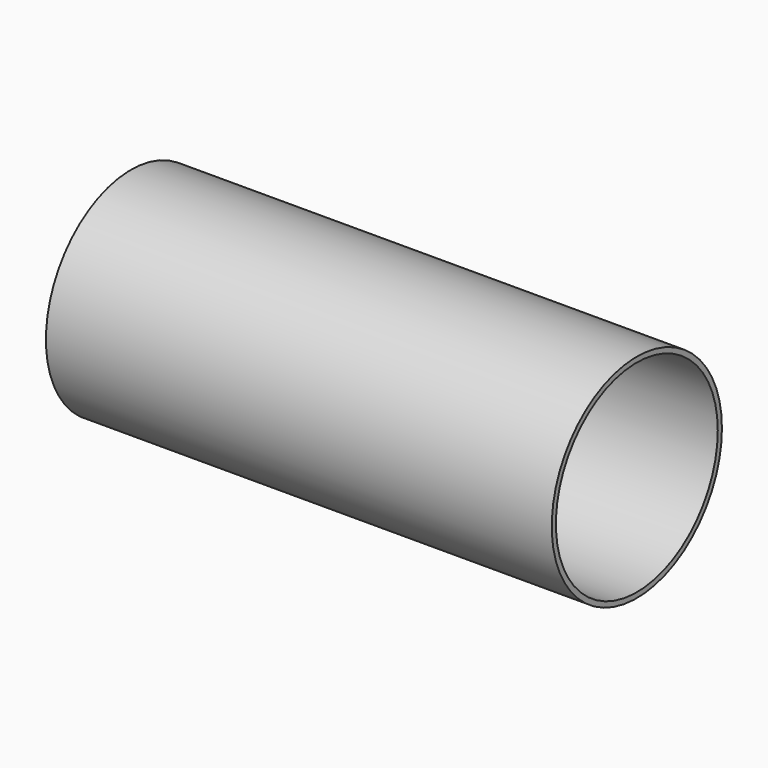
from build123d import *

# Parameters (mm, degrees)
F0_R     = 26.701736
F1_DEPTH = 63.5
F2_R     = 25.4
F3_DEPTH = 152.4


with BuildPart() as f1:
    # F0 (on Right) → F1 (new body, symmetric)
    with BuildSketch(Plane.YZ):
        Circle(F0_R)
    extrude(amount=F1_DEPTH, both=True)

    # F2 (on face) → F3 (cut, symmetric)
    with BuildSketch(Plane.YZ.offset(63.5)):
        Circle(F2_R)
    extrude(amount=F3_DEPTH, both=True, mode=Mode.SUBTRACT)


solid = f1.part
